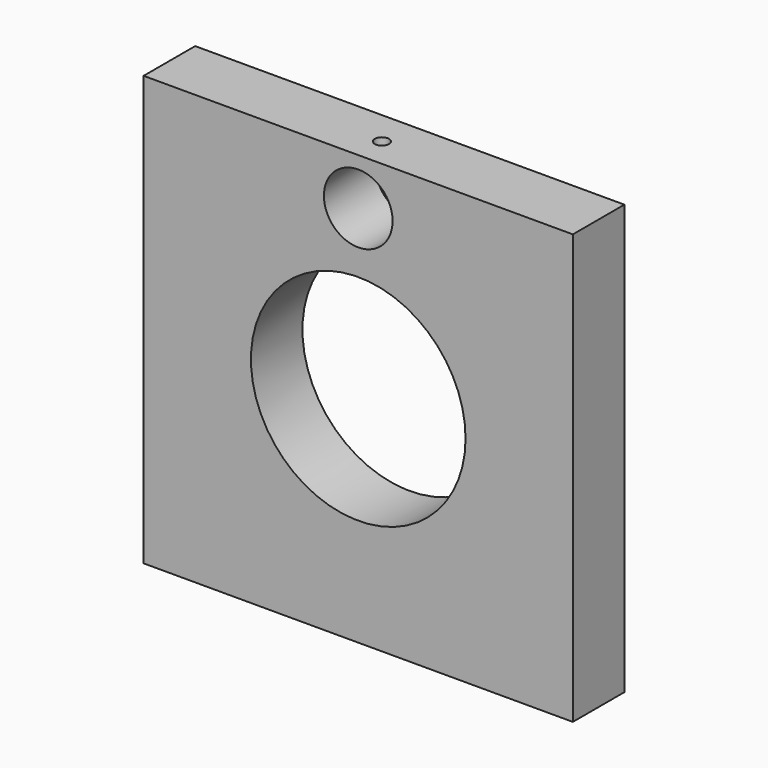
from build123d import *

# Parameters (mm, degrees)
F0_W     = 100
F0_H     = 100
F2_DEPTH = 15
F1_R     = 25
F3_DEPTH = 15.001
F4_R     = 8
F5_DEPTH = 15.001
F7_D     = 3.3
F7_DEPTH = 13.5
F7_TIP   = 0.9914200214


with BuildPart() as f2:
    # F0 (on Front) → F2 (new body)
    with BuildSketch(Plane.XZ):
        Rectangle(F0_W, F0_H)
    extrude(amount=F2_DEPTH)

    # F1 (on Front) → F3 (cut, through all)
    with BuildSketch(Plane.XZ):
        Circle(F1_R)
    extrude(amount=F3_DEPTH, mode=Mode.SUBTRACT)

    # F4 (on Front) → F5 (cut, through all)
    with BuildSketch(Plane.XZ):
        with Locations((0, 39.0632459029)):
            Circle(F4_R)
    extrude(amount=F5_DEPTH, mode=Mode.SUBTRACT)

    # F7
    with Locations(Plane.XY.offset(50)):
        with Locations((0, -8.1104654819)):
            Hole(F7_D / 2, depth=F7_DEPTH)
            with Locations((0, 0, -(F7_DEPTH + F7_TIP / 2))):  # 118° drill point
                Cone(0, F7_D / 2, F7_TIP, mode=Mode.SUBTRACT)


solid = f2.part
